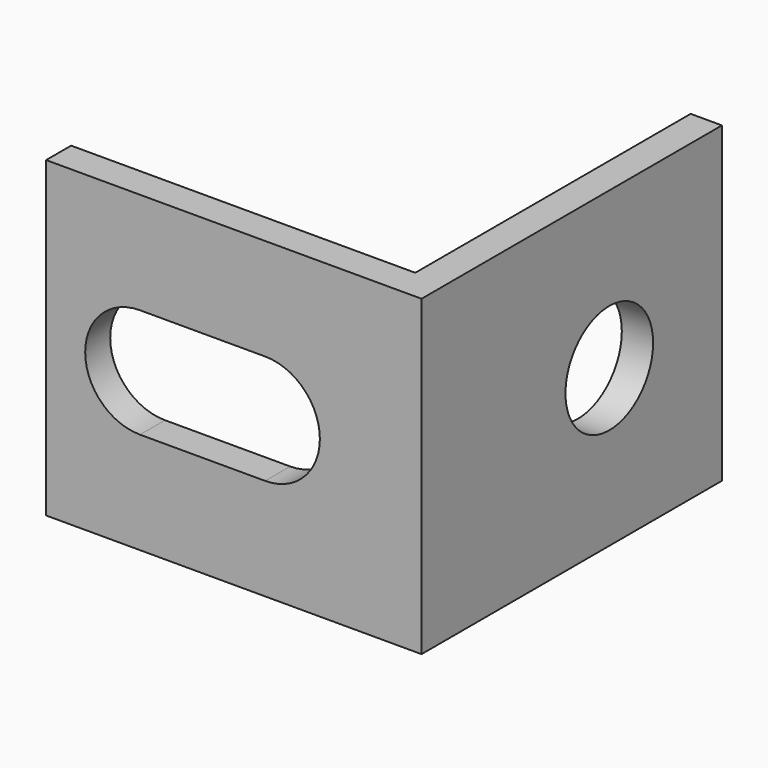
from build123d import *

# Parameters (mm, degrees)
F1_DEPTH = 10
F4_D     = 3.5
F5_DEPTH = 25


with BuildPart() as f1:
    # F0 (on Top) → F1 (new body)
    with BuildSketch(Plane.XY):
        Polygon((-12, 0), (0, 0), (0, 12), (-1, 12), (-1, 1), (-12, 1), align=None)
    extrude(amount=F1_DEPTH)

    # F4 (through all)
    with Locations(Plane(origin=(-1, 0, 0), x_dir=(0, -1, 0), z_dir=(-1, 0, 0))):
        with Locations((-7.5, 5)):
            Hole(F4_D / 2)

    # F2 (on face) → F5 (cut)
    with BuildSketch(Plane(origin=(0, 1, 0), x_dir=(-1, 0, 0), z_dir=(0, 1, 0))):
        with BuildLine():
            Line((9, 6.75), (5, 6.75))
            ThreePointArc((5, 6.75), (3.25, 5), (5, 3.25))
            Line((5, 3.25), (9, 3.25))
            ThreePointArc((9, 3.25), (10.75, 5), (9, 6.75))
        make_face()
    extrude(amount=-F5_DEPTH, mode=Mode.SUBTRACT)


solid = f1.part
